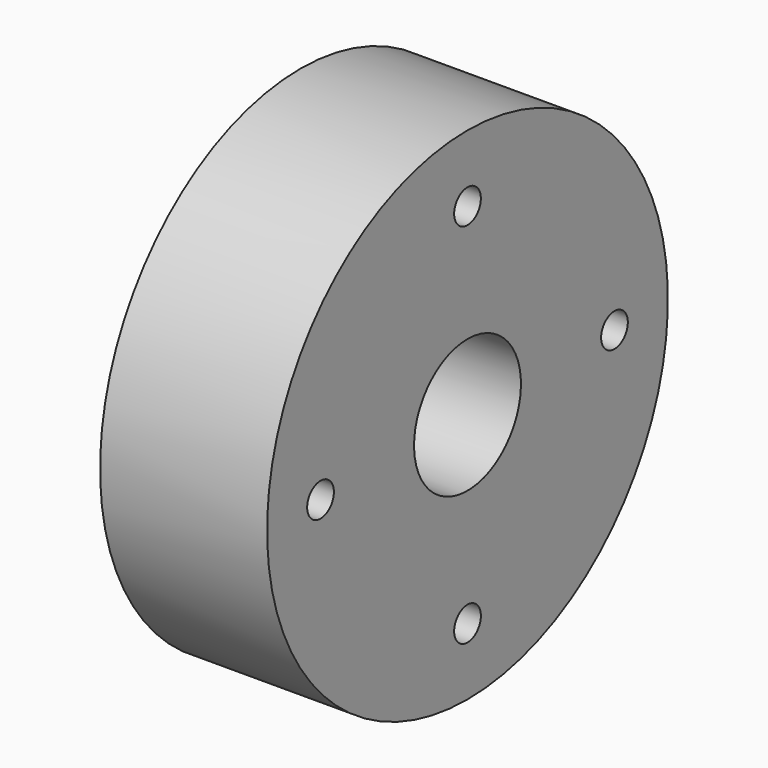
from build123d import *

# Parameters (mm, degrees)
SKETCH013_R             = 15
PAD008_DEPTH            = 10
POCKET002_DEPTH         = 2.5
POLARPATTERN_COUNT      = 4
SKETCH010_R             = 1
HOLE_DEPTH              = 25
POLARPATTERN001_COUNT   = 4
SKETCH011_R             = 4
POCKET001_DEPTH         = 7.501
BODY009_PLACEMENT_ANGLE = 90


with BuildPart() as part:
    # Sketch013 → Pad008 (new body)
    with BuildSketch(Plane.XY):
        Circle(SKETCH013_R)
    extrude(amount=PAD008_DEPTH)

    # Sketch012 (on Face3 of Pad008) → Pocket002 (cut)
    with BuildSketch(Plane.XY.offset(10)):
        with BuildLine():
            ThreePointArc((-5.26869, 1.578261), (0, -5.5), (5.26869, 1.578261))
            Line((2.107476, 12.131304), (5.26869, 1.578261))
            ThreePointArc((2.107476, 12.131304), (0, 13.7), (-2.107476, 12.131304))
            Line((-2.107476, 12.131304), (-5.26869, 1.578261))
        make_face()
    pocket002 = extrude(amount=-POCKET002_DEPTH, mode=Mode.SUBTRACT)

    # PolarPattern: Pocket002 ×4 about axis
    polarpattern_axis = Axis((0, 0, 10), (0, 0, 1))
    for i in range(1, POLARPATTERN_COUNT):
        add(pocket002.rotate(polarpattern_axis, i * 360 / POLARPATTERN_COUNT), mode=Mode.SUBTRACT)

    # Sketch010 (on Face21 of PolarPattern) → Hole (cut)
    with BuildSketch(Plane.XY.offset(7.5)):
        with Locations((0, 11)):
            Circle(SKETCH010_R)
    hole = extrude(amount=-HOLE_DEPTH, mode=Mode.SUBTRACT)

    # PolarPattern001: Hole ×4 about axis
    polarpattern001_axis = Axis((0, 0, 7.5), (0, 0, 1))
    for i in range(1, POLARPATTERN001_COUNT):
        add(hole.rotate(polarpattern001_axis, i * 360 / POLARPATTERN001_COUNT), mode=Mode.SUBTRACT)

    # Sketch011 (on Face25 of PolarPattern001) → Pocket001 (cut, through all)
    with BuildSketch(Plane.XY.offset(7.5)):
        Circle(SKETCH011_R)
    extrude(amount=-POCKET001_DEPTH, mode=Mode.SUBTRACT)


with BuildPart() as part_1:
    # Body009 placement: moved
    add(part.part.moved(Location((-11, 0, 0))).rotate(Axis((-11, 0, 0), (0, -1, 0)), BODY009_PLACEMENT_ANGLE))


solid = part_1.part
